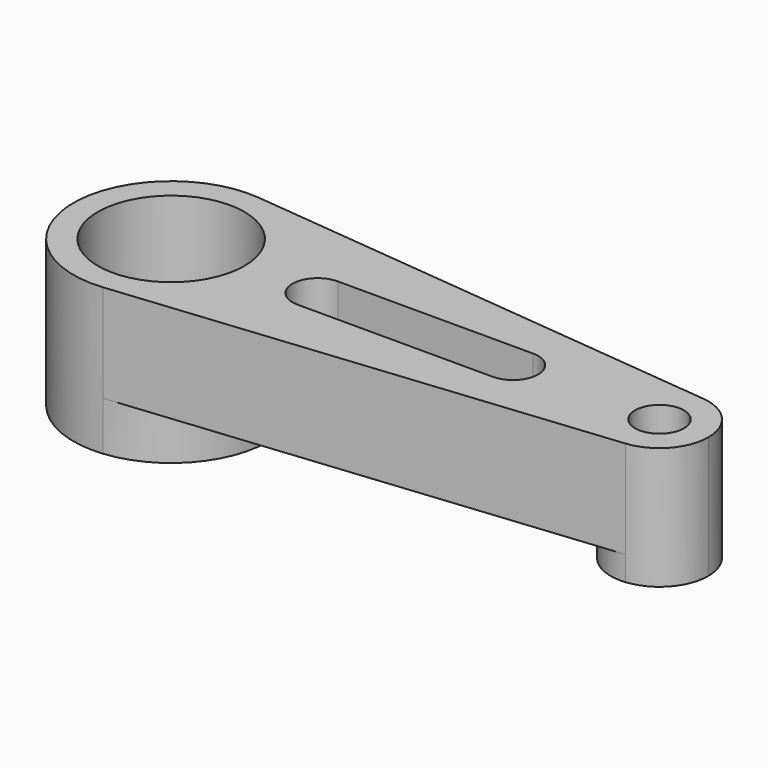
from build123d import *

# Parameters (mm, degrees)
F0_R     = 19.05
F0_R_2   = 6.35
F1_DEPTH = 38.1
F2_DEPTH = 12.7
F3_DEPTH = 6.35


with BuildPart() as f1:
    # F0 (on Top) → F1 (new body)
    with BuildSketch(Plane.XY):
        with BuildLine():
            ThreePointArc((-837.6395976841, 421.923872186), (-821.3424535269, 430.1577150999), (-814.7795976841, 447.1965530885))
            ThreePointArc((-814.7795976841, 447.1965530885), (-821.3424535269, 464.235391077), (-837.6395976841, 472.469233991))
            ThreePointArc((-837.6395976841, 472.469233991), (-865.5795976841, 447.1965530885), (-837.6395976841, 421.923872186))
        make_face()
        with Locations((-840.1795976841, 447.1965530885)):
            Circle(F0_R, mode=Mode.SUBTRACT)
        with BuildLine():
            ThreePointArc((-837.6395976841, 472.469233991), (-821.3424535269, 464.235391077), (-814.7795976841, 447.1965530885))
            ThreePointArc((-814.7795976841, 447.1965530885), (-821.3424535269, 430.1577150999), (-837.6395976841, 421.923872186))
            Line((-837.6395976841, 421.923872186), (-711.9095976841, 434.5602126372))
            ThreePointArc((-711.9095976841, 434.5602126372), (-725.8795976841, 447.1965530885), (-711.9095976841, 459.8328935397))
            Line((-711.9095976841, 459.8328935397), (-837.6395976841, 472.469233991))
        make_face()
        with BuildLine():
            ThreePointArc((-802.0795976841, 440.6483835481), (-808.6277672246, 447.1965530885), (-802.0795976841, 453.7447226289))
            Line((-802.0795976841, 453.7447226289), (-751.2795976841, 453.7447226289))
            ThreePointArc((-751.2795976841, 453.7447226289), (-744.7314281437, 447.1965530885), (-751.2795976841, 440.6483835481))
            Line((-751.2795976841, 440.6483835481), (-802.0795976841, 440.6483835481))
        make_face(mode=Mode.SUBTRACT)
        with BuildLine():
            ThreePointArc((-700.4795976841, 447.1965530885), (-703.7610256055, 455.7159720828), (-711.9095976841, 459.8328935397))
            ThreePointArc((-711.9095976841, 459.8328935397), (-725.8795976841, 447.1965530885), (-711.9095976841, 434.5602126372))
            ThreePointArc((-711.9095976841, 434.5602126372), (-703.7610256055, 438.6771340942), (-700.4795976841, 447.1965530885))
        make_face()
        with Locations((-713.1795976841, 447.1965530885)):
            Circle(F0_R_2, mode=Mode.SUBTRACT)
    extrude(amount=F1_DEPTH)

    # F0 (on Top) → F2 (cut)
    with BuildSketch(Plane.XY):
        with BuildLine():
            ThreePointArc((-837.6395976841, 472.469233991), (-821.3424535269, 464.235391077), (-814.7795976841, 447.1965530885))
            ThreePointArc((-814.7795976841, 447.1965530885), (-821.3424535269, 430.1577150999), (-837.6395976841, 421.923872186))
            Line((-837.6395976841, 421.923872186), (-711.9095976841, 434.5602126372))
            ThreePointArc((-711.9095976841, 434.5602126372), (-725.8795976841, 447.1965530885), (-711.9095976841, 459.8328935397))
            Line((-711.9095976841, 459.8328935397), (-837.6395976841, 472.469233991))
        make_face()
        with BuildLine():
            ThreePointArc((-802.0795976841, 440.6483835481), (-808.6277672246, 447.1965530885), (-802.0795976841, 453.7447226289))
            Line((-802.0795976841, 453.7447226289), (-751.2795976841, 453.7447226289))
            ThreePointArc((-751.2795976841, 453.7447226289), (-744.7314281437, 447.1965530885), (-751.2795976841, 440.6483835481))
            Line((-751.2795976841, 440.6483835481), (-802.0795976841, 440.6483835481))
        make_face(mode=Mode.SUBTRACT)
    extrude(amount=F2_DEPTH, mode=Mode.SUBTRACT)

    # F3 (cut): a face of the model
    f3_faces = [f1.faces().sort_by_distance(p)[0] for p in [
        (-714.4136766597, 459.4754838588, 0),
    ]]
    extrude(f3_faces, amount=-F3_DEPTH, mode=Mode.SUBTRACT)


solid = f1.part
